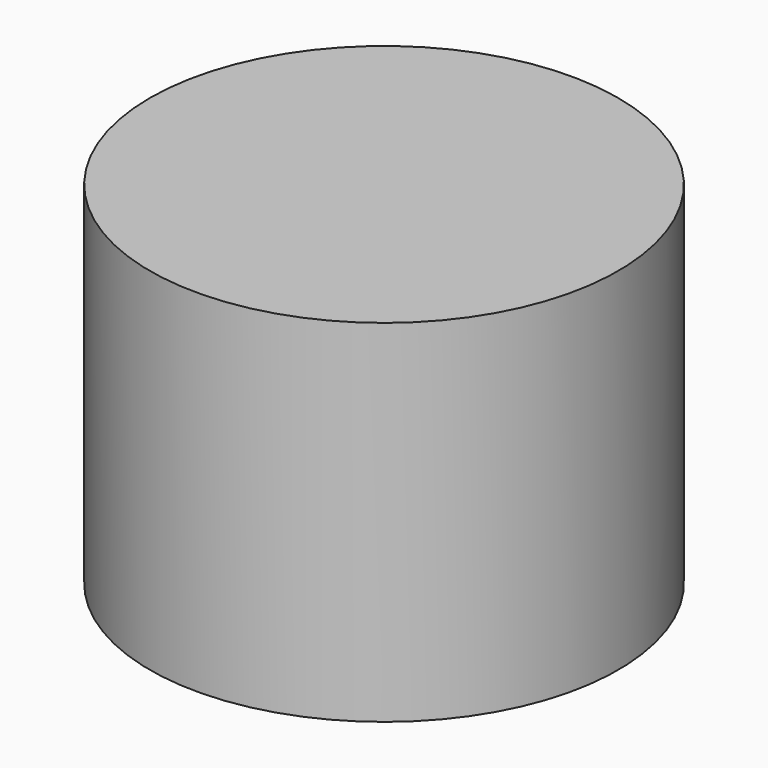
from build123d import *

# Parameters (mm, degrees)
F0_W     = 101.6
F0_H     = 152.4
F2_T     = -12.7
F3_R     = 89.4707101345
F4_DEPTH = 63.5


with BuildPart() as f1:
    # F0 (on Front) → F1 (revolve)
    with BuildSketch(Plane.XZ):
        Rectangle(F0_W, F0_H)
        Rectangle(F0_W, F0_H)
    revolve(axis=Axis((50.8, 0, 0), (0, 0, -1)))

    # F2 (hollow: no face is removed)
    offset(amount=F2_T, mode=Mode.SUBTRACT)

    # F3 (on Top) → F4 (cut, symmetric)
    with BuildSketch(Plane.XY):
        with Locations((51.3707101345, 0)):
            Circle(F3_R)
    extrude(amount=F4_DEPTH, both=True, mode=Mode.SUBTRACT)


solid = f1.part
